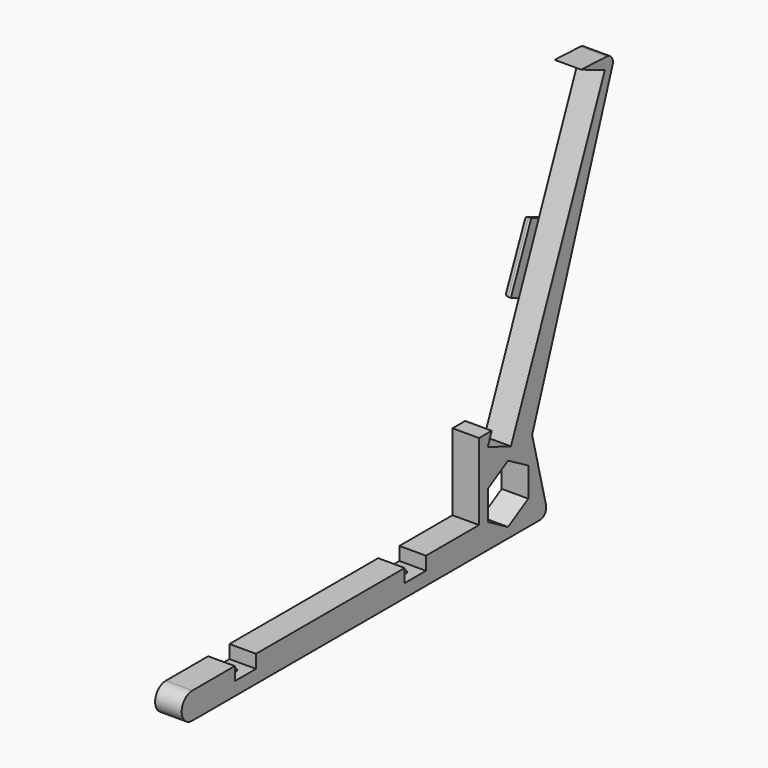
from build123d import *

# Parameters (mm, degrees)
PAD_DEPTH       = 10
SKETCH001_R     = 1.5
POCKET_DEPTH    = 5
PAD001_DEPTH    = 3
FILLET_R        = 2
FILLET001_R     = 3
FILLET002_R     = 3
POCKET001_DEPTH = 3


with BuildPart() as part:
    # Sketch → Pad (new body)
    with BuildSketch(Plane.YZ):
        with BuildLine():
            Line((33.085568, 111.431625), (44.200844, 106.790084))
            Line((44.200844, 106.790084), (0, 0))
            Line((0, 0), (-10.926105, 4.190362))
            Line((-10.926105, 4.190362), (-9.043063, 8.84724))
            Line((-9.043063, 8.84724), (-15, 8.84724))
            Line((-15, 8.84724), (-15, -20))
            Line((-15, -20), (-40, -20))
            Line((-40, -25), (-40, -20))
            Line((-50, -25), (-40, -25))
            Line((-50, -20), (-50, -25))
            Line((-50, -20), (-120, -20))
            Line((-120, -25), (-120, -20))
            Line((-130, -25), (-120, -25))
            Line((-130, -20), (-130, -25))
            Line((-130, -20), (-150, -20))
            ThreePointArc((-150, -20), (-155, -25), (-150, -30))
            Line((-150, -30), (17.484663, -30))
            Line((17.484663, -30), (10, -0.272781))
            Line((10, -0.272781), (49.18668, 110.743774))
            Line((49.18668, 110.743774), (33.085568, 111.431625))
        make_face()
        Polygon((8.178281, -20.684753), (8.178281, -9.690605), (-1.342931, -4.193531), (-10.864143, -9.690605), (-10.864143, -20.684753), (-1.342931, -26.181827), align=None, mode=Mode.SUBTRACT)
    extrude(amount=PAD_DEPTH)

    # Sketch001 → Pocket (cut)
    with BuildSketch(Plane(origin=(0, 0, -25), x_dir=(0, -1, 0), z_dir=(0, 0, 1))):
        with Locations((45, 5)):
            Circle(SKETCH001_R)
        with Locations((125, 5)):
            Circle(SKETCH001_R)
    extrude(amount=-POCKET_DEPTH, mode=Mode.SUBTRACT)

    # Sketch003 → Pad001 (new body)
    with BuildSketch(Plane(origin=(0, 0, 0), x_dir=(0, 1, 0), z_dir=(-1, 0, 0))):
        Polygon((19.571926, -37.694836), (28.872379, -60.69595), (22.072046, -63.396084), (12.471581, -40.894993), align=None)
    extrude(amount=PAD001_DEPTH)

    # Fillet
    fillet_edges = [part.edges().sort_by_distance(p)[0] for p in [
        (-3, 24.222153, 49.195393),
        (-3, 25.472213, 62.046017),
        (-3, 17.271813, 52.145538),
        (-3, 16.021754, 39.294915),
    ]]
    fillet(fillet_edges, radius=FILLET_R)

    # Fillet001
    fillet001_edges = [part.edges().sort_by_distance(p)[0] for p in [
        (5, 49.18668, 110.743774),
    ]]
    fillet(fillet001_edges, radius=FILLET001_R)

    # Fillet002
    fillet002_edges = [part.edges().sort_by_distance(p)[0] for p in [
        (5, 17.484663, -30),
    ]]
    fillet(fillet002_edges, radius=FILLET002_R)

    # Sketch002 → Pocket001 (cut)
    with BuildSketch(Plane.YX.offset(30)):
        Polygon((-123.239415, 1.964181), (-121.507364, 4.964181), (-123.239415, 7.964181), (-126.703517, 7.964181), (-128.435568, 4.964181), (-126.703517, 1.964181), align=None)
        Polygon((-43.334626, 7.980642), (-46.798728, 7.980642), (-48.530779, 4.980642), (-46.798728, 1.980642), (-43.334626, 1.980642), (-41.602575, 4.980642), align=None)
    extrude(amount=-POCKET001_DEPTH, mode=Mode.SUBTRACT)


solid = part.part
